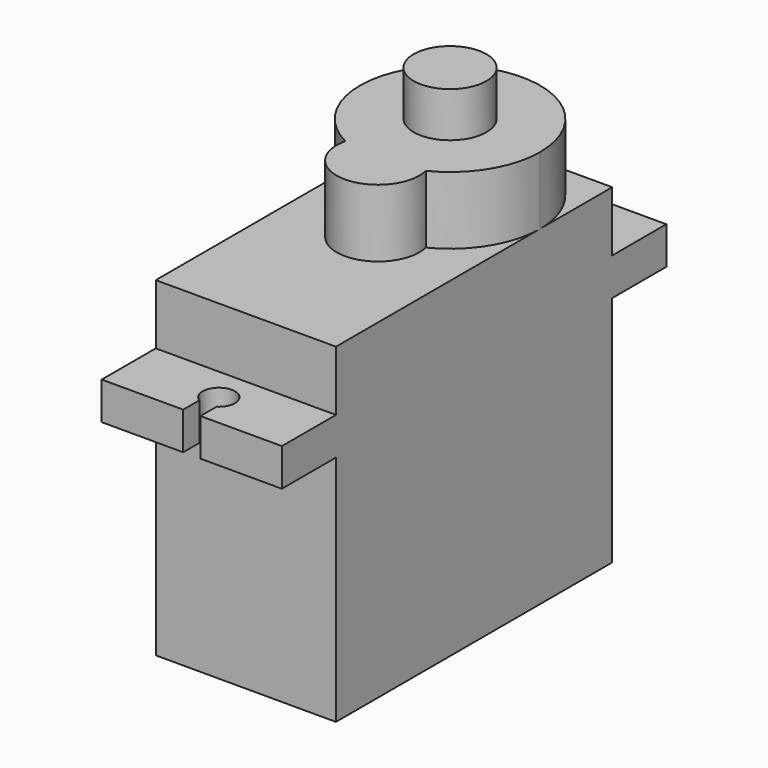
from build123d import *

# Parameters (mm, degrees)
F0_W      = 12
F0_H      = 23
F1_DEPTH  = 22
F3_W      = 12
F3_H      = 4.5
F4_DEPTH  = 2.5
F6_DEPTH  = 18.001
F8_DEPTH  = 4.5
F9_R      = 2.425
F10_DEPTH = 3


with BuildPart() as f1:
    # F0 (on Top) → F1 (new body)
    with BuildSketch(Plane.XY):
        with Locations((6, 11.5)):
            Rectangle(F0_W, F0_H)
    extrude(amount=F1_DEPTH)

    # F3 (on offset) → F4 (join)
    with BuildSketch(Plane.XY.offset(15.5)):
        with Locations((6, 25.25)):
            Rectangle(F3_W, F3_H)
        with Locations((6, -2.25)):
            Rectangle(F3_W, F3_H)
    extrude(amount=F4_DEPTH)

    # F5 (on face) → F6 (cut, through all)
    with BuildSketch(Plane.XY.offset(18)):
        with BuildLine():
            ThreePointArc((5.425, 26.158295), (5.481589, 24.30826), (7.075, 25.25))
            ThreePointArc((7.075, 25.25), (6.94174, 25.768411), (6.575, 26.158295))
            ThreePointArc((6.575, 26.158295), (6, 26.325), (5.425, 26.158295))
        make_face()
        with BuildLine():
            ThreePointArc((5.425, 26.158295), (6, 26.325), (6.575, 26.158295))
            Line((6.575, 26.158295), (6.575, 27.5))
            Line((6.575, 27.5), (5.425, 27.5))
            Line((5.425, 27.5), (5.425, 26.158295))
        make_face()
        with BuildLine():
            Line((5.425, -4.5), (6.575, -4.5))
            Line((6.575, -4.5), (6.575, -3.158295))
            ThreePointArc((6.575, -3.158295), (6, -3.325), (5.425, -3.158295))
            Line((5.425, -3.158295), (5.425, -4.5))
        make_face()
        with BuildLine():
            ThreePointArc((5.425, -3.158295), (6, -3.325), (6.575, -3.158295))
            ThreePointArc((6.575, -3.158295), (6.94174, -2.768411), (7.075, -2.25))
            ThreePointArc((7.075, -2.25), (5.481589, -1.30826), (5.425, -3.158295))
        make_face()
    extrude(amount=-F6_DEPTH, mode=Mode.SUBTRACT)

    # F7 (on face) → F8 (join)
    with BuildSketch(Plane.XY.offset(22)):
        with BuildLine():
            ThreePointArc((8.676815, 11.630208), (11.102004, 13.84254), (12, 17))
            ThreePointArc((12, 17), (2.84254, 22.102004), (3.323185, 11.630208))
            ThreePointArc((3.323185, 11.630208), (6, 11), (8.676815, 11.630208))
        make_face()
        with BuildLine():
            ThreePointArc((8.676815, 11.630208), (6, 11), (3.323185, 11.630208))
            ThreePointArc((3.323185, 11.630208), (6, 8.25), (8.676815, 11.630208))
        make_face()
    extrude(amount=F8_DEPTH)

    # F9 (on face) → F10 (join)
    with BuildSketch(Plane.XY.offset(26.5)):
        with Locations((6, 17)):
            Circle(F9_R)
    extrude(amount=F10_DEPTH)


solid = f1.part
